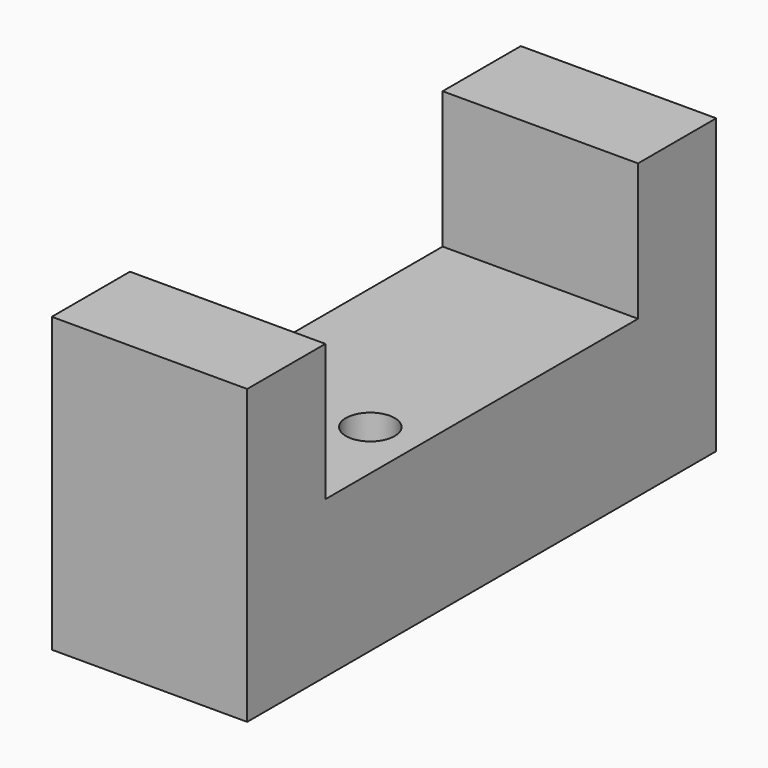
from build123d import *

# Parameters (mm, degrees)
CYLINDER062_R          = 1.25
CYLINDER062_DEPTH      = 10
CYLINDER060_R          = 1.25
CYLINDER060_DEPTH      = 10
CYLINDER061_R          = 1.25
CYLINDER061_DEPTH      = 10
CYLINDER059_R          = 1.25
CYLINDER059_DEPTH      = 10
BOX025_W               = 10
BOX025_H               = 8
BOX025_DEPTH           = 20
BOX026_W               = 10
BOX026_H               = 15
BOX026_DEPTH           = 5
BOX024_W               = 10
BOX024_H               = 15
BOX024_DEPTH           = 5
CUT030_PLACEMENT_ANGLE = 90


with BuildPart() as cylinder062:
    # Cylinder062 → Cylinder062 (new body)
    with BuildSketch(Plane(origin=(87.5, 61, 14), x_dir=(1, 0, 0), z_dir=(0, -1, 0))):
        Circle(CYLINDER062_R)
    extrude(amount=CYLINDER062_DEPTH)


with BuildPart() as fusion060:
    # Cylinder060 → Cylinder060 (new body)
    with BuildSketch(Plane(origin=(87.5, 11, 14), x_dir=(1, 0, 0), z_dir=(0, -1, 0))):
        Circle(CYLINDER060_R)
    extrude(amount=CYLINDER060_DEPTH)

    # Fusion060: union Cylinder062
    add(cylinder062.part)


with BuildPart() as cylinder061:
    # Cylinder061 → Cylinder061 (new body)
    with BuildSketch(Plane(origin=(82.5, 61, 14), x_dir=(1, 0, 0), z_dir=(0, -1, 0))):
        Circle(CYLINDER061_R)
    extrude(amount=CYLINDER061_DEPTH)


with BuildPart() as fusion061:
    # Cylinder059 → Cylinder059 (new body)
    with BuildSketch(Plane(origin=(82.5, 11, 14), x_dir=(1, 0, 0), z_dir=(0, -1, 0))):
        Circle(CYLINDER059_R)
    extrude(amount=CYLINDER059_DEPTH)

    # Fusion062: union Cylinder061
    add(cylinder061.part)

    # Fusion061: union Fusion060
    add(fusion060.part)


with BuildPart() as fusion061_1:
    # Fusion061 placement: moved
    add(fusion061.part.moved(Location((0, -10, 0))))


with BuildPart() as cube004:
    # Box025 → Box025 (new body)
    with BuildSketch(Plane(origin=(0, -10, 0), x_dir=(1, 0, 0), z_dir=(0, 0, 1))):
        with Locations((5, 4)):
            Rectangle(BOX025_W, BOX025_H)
    extrude(amount=BOX025_DEPTH)


with BuildPart() as cube005:
    # Box026 → Box026 (new body)
    with BuildSketch(Plane(origin=(0, -10, 20), x_dir=(1, 0, 0), z_dir=(0, 0, 1))):
        with Locations((5, 7.5)):
            Rectangle(BOX026_W, BOX026_H)
    extrude(amount=BOX026_DEPTH)


with BuildPart() as cut030:
    # Box024 → Box024 (new body)
    with BuildSketch(Plane(origin=(0, -10, -5), x_dir=(1, 0, 0), z_dir=(0, 0, 1))):
        with Locations((5, 7.5)):
            Rectangle(BOX024_W, BOX024_H)
    extrude(amount=BOX024_DEPTH)

    # Fusion066: union Cube004, Cube005
    add(cube004.part)
    add(cube005.part)


with BuildPart() as cut030_1:
    # Fusion066 placement: moved
    add(cut030.part.moved(Location((80, 2, 0))))

    # Cut030: cut Fusion061
    add(fusion061_1.part, mode=Mode.SUBTRACT)


with BuildPart() as cut030_2:
    # Cut030 placement: moved
    add(cut030_1.part.moved(Location((0, -10, 0))).rotate(Axis((0, -10, 0), (1, 0, 0)), CUT030_PLACEMENT_ANGLE))


solid = cut030_2.part
